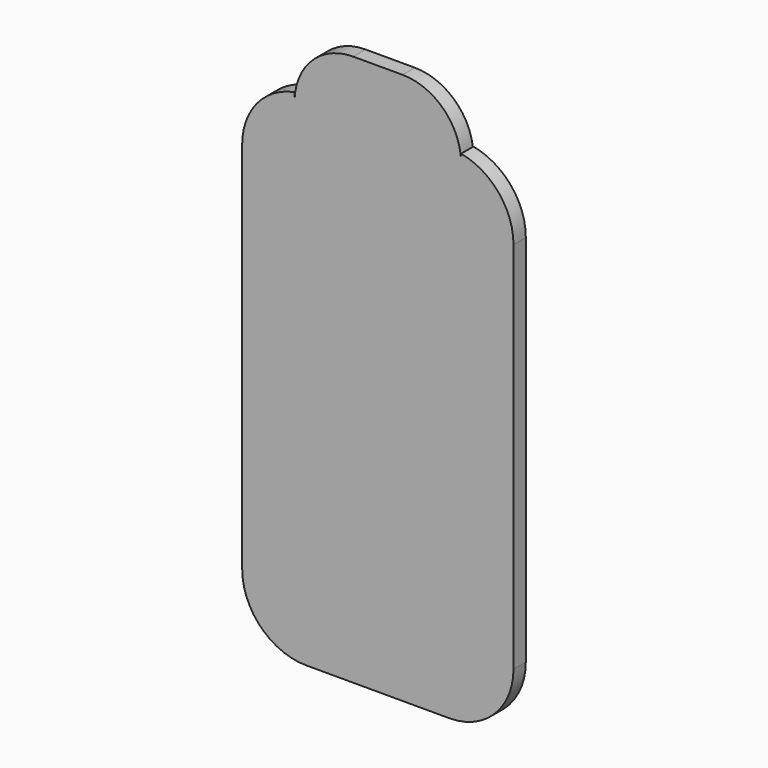
from build123d import *

# Parameters (mm, degrees)
F1_DEPTH = 3.175


with BuildPart() as f1:
    # F0 (on Front) → F1 (new body)
    with BuildSketch(Plane.XZ):
        with BuildLine():
            ThreePointArc((-37.736197, 13.208), (-33.867664, 3.868534), (-24.528197, 0))
            Line((-24.528197, 0), (4.935803, 0))
            ThreePointArc((4.935803, 0), (14.275269, 3.868534), (18.143803, 13.208))
            Line((18.143803, 13.208), (18.143803, 90.17))
            ThreePointArc((18.143803, 90.17), (15.092627, 98.613351), (7.348803, 103.155711))
            Line((7.348803, 103.155711), (7.348803, 101.473))
            ThreePointArc((7.348803, 101.473), (7.318508, 102.327454), (7.227776, 103.177618))
            ThreePointArc((7.227776, 103.177618), (6.086161, 103.327809), (4.935803, 103.378))
            Line((4.935803, 103.378), (-24.528197, 103.378))
            ThreePointArc((-24.528197, 103.378), (-25.678556, 103.327809), (-26.820171, 103.177618))
            ThreePointArc((-26.820171, 103.177618), (-26.910903, 102.327454), (-26.941197, 101.473))
            Line((-26.941197, 101.473), (-26.941197, 103.155711))
            ThreePointArc((-26.941197, 103.155711), (-34.685022, 98.613351), (-37.736197, 90.17))
            Line((-37.736197, 90.17), (-37.736197, 13.208))
        make_face()
        with BuildLine():
            ThreePointArc((-14.876197, 113.538), (-22.781829, 110.587012), (-26.820171, 103.177618))
            ThreePointArc((-26.820171, 103.177618), (-25.678556, 103.327809), (-24.528197, 103.378))
            Line((-24.528197, 103.378), (4.935803, 103.378))
            ThreePointArc((4.935803, 103.378), (6.086161, 103.327809), (7.227776, 103.177618))
            ThreePointArc((7.227776, 103.177618), (3.189434, 110.587012), (-4.716197, 113.538))
            Line((-4.716197, 113.538), (-14.876197, 113.538))
        make_face()
    extrude(amount=F1_DEPTH)


solid = f1.part
